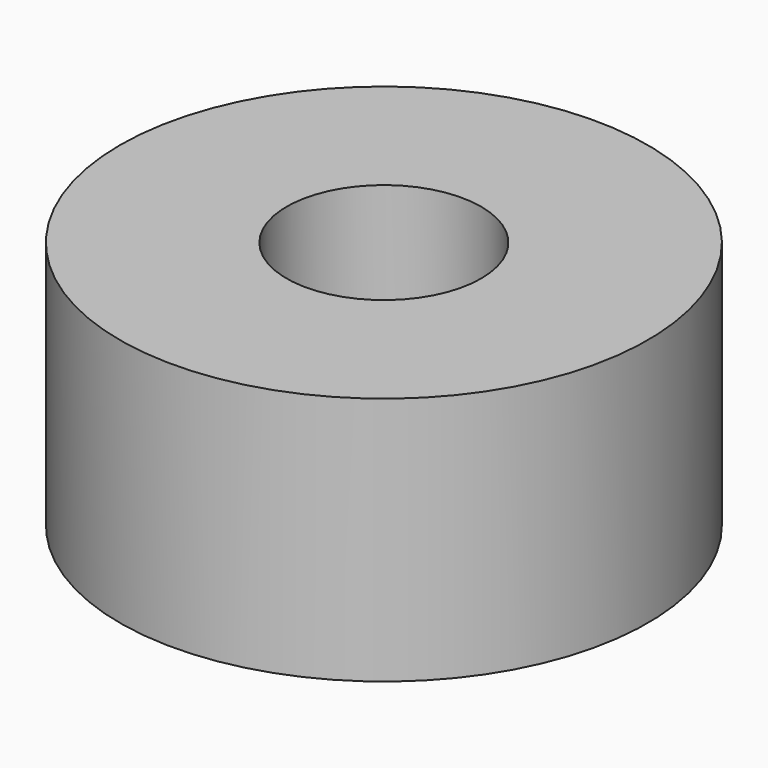
from build123d import *

# Parameters (mm, degrees)
F0_W     = 30
F0_H     = 28.30388
F2_R     = 11.055713
F3_DEPTH = 40


with BuildPart() as f1:
    # F0 (on Front) → F1 (revolve)
    with BuildSketch(Plane.XZ):
        with Locations((15, -14.15194)):
            Rectangle(F0_W, F0_H)
    revolve(axis=Axis((30, 0, -14.15194), (0, 0, -1)))

    # F2 (on face) → F3 (cut)
    with BuildSketch(Plane.XY):
        with Locations((30, 0)):
            Circle(F2_R)
    extrude(amount=-F3_DEPTH, mode=Mode.SUBTRACT)


solid = f1.part
